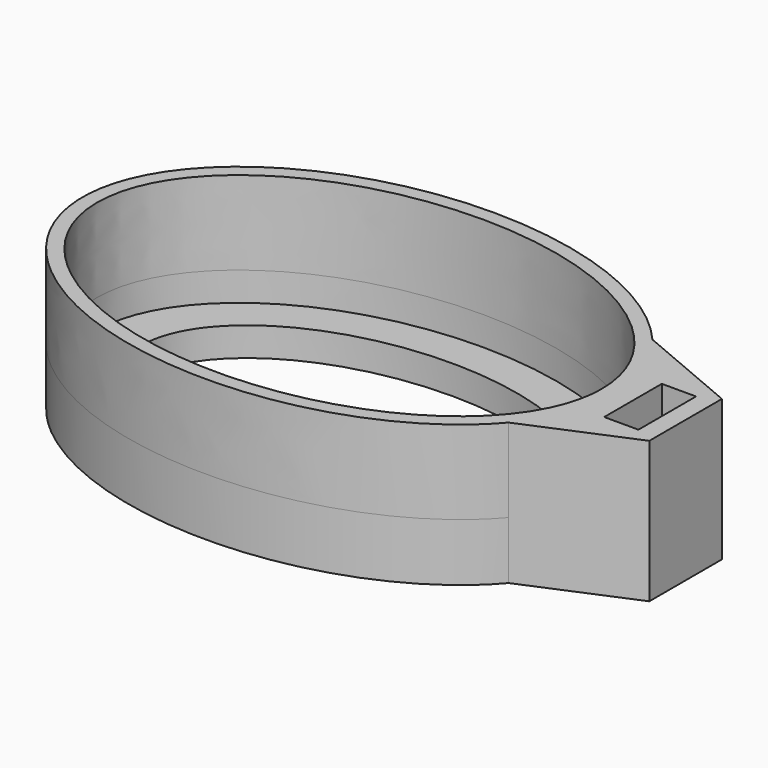
from build123d import *

# Parameters (mm, degrees)
F0_W     = 2.376426
F0_H     = 4.992488
F1_DEPTH = 4
F3_DEPTH = 2
F4_DEPTH = 9.8


with BuildPart() as f1:
    # F0 (on Top) → F1 (new body)
    with BuildSketch(Plane.XY):
        with BuildLine():
            add(Edge.make_bspline(
                [(18.490684, 0), (18.490684, 3.339035), (16.026402, 6.233295)],
                knots=[0, 0, 0, 0.522056, 0.522056, 0.522056], degree=2, weights=[1, 0.966125, 1]))
            add(Edge.make_bspline(
                [(16.026402, -6.233295), (18.490684, -3.339035), (18.490684, 0)],
                knots=[5.761129, 5.761129, 5.761129, 6.283185, 6.283185, 6.283185], degree=2, weights=[1, 0.966125, 1]))
            Line((16.026402, -6.233295), (23.315942, -3.147899))
            Line((23.315942, -3.147899), (23.315942, 0))
            Line((23.315942, 0), (23.315942, 3.147899))
            Line((23.315942, 3.147899), (16.026402, 6.233295))
        make_face()
        with Locations((20.853437, 0)):
            Rectangle(F0_W, F0_H, mode=Mode.SUBTRACT)
        with BuildLine():
            add(Edge.make_bspline(
                [(16.026402, -6.233295), (18.490684, -3.339035), (18.490684, 0)],
                knots=[5.761129, 5.761129, 5.761129, 6.283185, 6.283185, 6.283185], degree=2, weights=[1, 0.966125, 1]))
            add(Edge.make_bspline(
                [(18.490684, 0), (18.490684, 3.339035), (16.026402, 6.233295)],
                knots=[0, 0, 0, 0.522056, 0.522056, 0.522056], degree=2, weights=[1, 0.966125, 1]))
            add(Edge.make_bspline(
                [(16.026402, 6.233295), (5.020659, 19.159371), (-11.893599, 9.579685), (-28.807856, 0), (-11.893599, -9.579685), (5.020659, -19.159371), (16.026402, -6.233295)],
                knots=[0.522056, 0.522056, 0.522056, 2.268414, 2.268414, 4.014771, 4.014771, 5.761129, 5.761129, 5.761129], degree=2, weights=[1, 0.642394, 1, 0.642394, 1, 0.642394, 1]))
        make_face()
        with BuildLine():
            add(Edge.make_bspline(
                [(17.5, 0), (17.5, 19.918584), (-8.75, 9.959292), (-35, 0), (-8.75, -9.959292), (17.5, -19.918584), (17.5, 0)],
                knots=[0, 0, 0, 2.094395, 2.094395, 4.18879, 4.18879, 6.283185, 6.283185, 6.283185], degree=2, weights=[1, 0.5, 1, 0.5, 1, 0.5, 1]))
        make_face(mode=Mode.SUBTRACT)
        with BuildLine():
            add(Edge.make_bspline(
                [(17.5, 0), (17.5, 19.918584), (-8.75, 9.959292), (-35, 0), (-8.75, -9.959292), (17.5, -19.918584), (17.5, 0)],
                knots=[0, 0, 0, 2.094395, 2.094395, 4.18879, 4.18879, 6.283185, 6.283185, 6.283185], degree=2, weights=[1, 0.5, 1, 0.5, 1, 0.5, 1]))
        make_face()
        with BuildLine():
            add(Edge.make_bspline(
                [(14.341332, 0.115194), (14.341332, 15.48259), (-7.300702, 7.798892), (-28.942735, 0.115194), (-7.300702, -7.568504), (14.341332, -15.252202), (14.341332, 0.115194)],
                knots=[0, 0, 0, 2.094395, 2.094395, 4.18879, 4.18879, 6.283185, 6.283185, 6.283185], degree=2, weights=[1, 0.5, 1, 0.5, 1, 0.5, 1]))
        make_face(mode=Mode.SUBTRACT)
    extrude(amount=F1_DEPTH)

    # F2 (on face) → F3 (cut)
    with BuildSketch(Plane.XY.offset(4)):
        with BuildLine():
            add(Edge.make_bspline(
                [(17.5, 0), (17.5, 19.918584), (-8.75, 9.959292), (-35, 0), (-8.75, -9.959292), (17.5, -19.918584), (17.5, 0)],
                knots=[0, 0, 0, 2.094395, 2.094395, 4.18879, 4.18879, 6.283185, 6.283185, 6.283185], degree=2, weights=[1, 0.5, 1, 0.5, 1, 0.5, 1]))
        make_face()
    extrude(amount=-F3_DEPTH, mode=Mode.SUBTRACT)

    # F0 (on Top) → F4 (join)
    with BuildSketch(Plane.XY):
        with BuildLine():
            add(Edge.make_bspline(
                [(16.026402, -6.233295), (18.490684, -3.339035), (18.490684, 0)],
                knots=[5.761129, 5.761129, 5.761129, 6.283185, 6.283185, 6.283185], degree=2, weights=[1, 0.966125, 1]))
            add(Edge.make_bspline(
                [(18.490684, 0), (18.490684, 3.339035), (16.026402, 6.233295)],
                knots=[0, 0, 0, 0.522056, 0.522056, 0.522056], degree=2, weights=[1, 0.966125, 1]))
            add(Edge.make_bspline(
                [(16.026402, 6.233295), (5.020659, 19.159371), (-11.893599, 9.579685), (-28.807856, 0), (-11.893599, -9.579685), (5.020659, -19.159371), (16.026402, -6.233295)],
                knots=[0.522056, 0.522056, 0.522056, 2.268414, 2.268414, 4.014771, 4.014771, 5.761129, 5.761129, 5.761129], degree=2, weights=[1, 0.642394, 1, 0.642394, 1, 0.642394, 1]))
        make_face()
        with BuildLine():
            add(Edge.make_bspline(
                [(17.5, 0), (17.5, 19.918584), (-8.75, 9.959292), (-35, 0), (-8.75, -9.959292), (17.5, -19.918584), (17.5, 0)],
                knots=[0, 0, 0, 2.094395, 2.094395, 4.18879, 4.18879, 6.283185, 6.283185, 6.283185], degree=2, weights=[1, 0.5, 1, 0.5, 1, 0.5, 1]))
        make_face(mode=Mode.SUBTRACT)
        with BuildLine():
            add(Edge.make_bspline(
                [(18.490684, 0), (18.490684, 3.339035), (16.026402, 6.233295)],
                knots=[0, 0, 0, 0.522056, 0.522056, 0.522056], degree=2, weights=[1, 0.966125, 1]))
            add(Edge.make_bspline(
                [(16.026402, -6.233295), (18.490684, -3.339035), (18.490684, 0)],
                knots=[5.761129, 5.761129, 5.761129, 6.283185, 6.283185, 6.283185], degree=2, weights=[1, 0.966125, 1]))
            Line((16.026402, -6.233295), (23.315942, -3.147899))
            Line((23.315942, -3.147899), (23.315942, 0))
            Line((23.315942, 0), (23.315942, 3.147899))
            Line((23.315942, 3.147899), (16.026402, 6.233295))
        make_face()
        with Locations((20.853437, 0)):
            Rectangle(F0_W, F0_H, mode=Mode.SUBTRACT)
    extrude(amount=F4_DEPTH)


solid = f1.part
